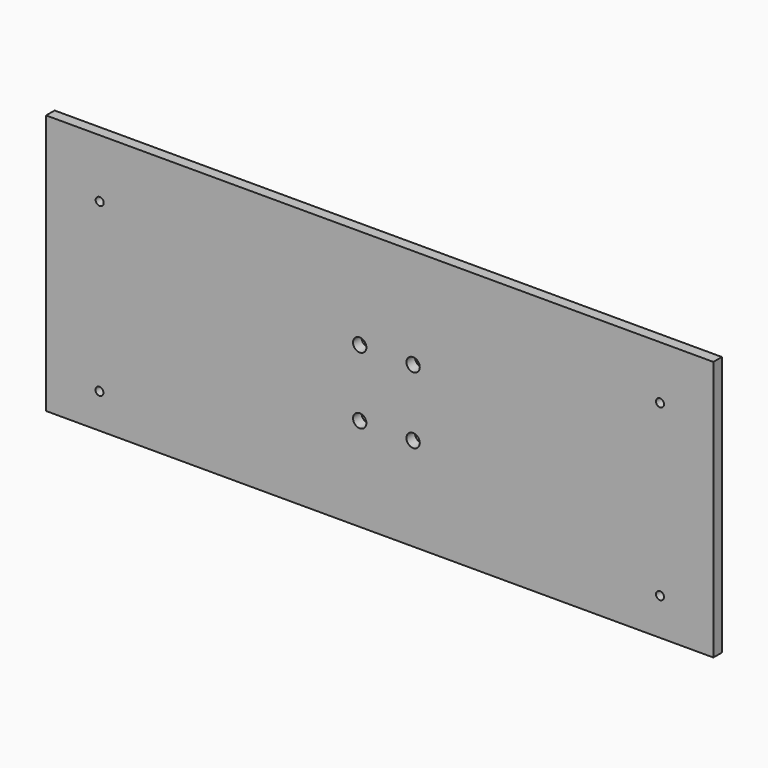
from build123d import *

# Parameters (mm, degrees)
F0_W     = 500
F0_H     = 195
F0_R     = 3
F0_R_2   = 5
F1_DEPTH = 8


with BuildPart() as f1:
    # F0 (on Front) → F1 (new body)
    with BuildSketch(Plane.XZ):
        with Locations((176.26947, 69.696774)):
            Rectangle(F0_W, F0_H)
        with Locations((-33.73053, -1.799607)):
            Circle(F0_R, mode=Mode.SUBTRACT)
        with Locations((161.26947, 42.196774)):
            Circle(F0_R_2, mode=Mode.SUBTRACT)
        with Locations((386.26947, 0)):
            Circle(F0_R, mode=Mode.SUBTRACT)
        with Locations((201.26947, 42.196774)):
            Circle(F0_R_2, mode=Mode.SUBTRACT)
        with Locations((161.26947, 92.196774)):
            Circle(F0_R_2, mode=Mode.SUBTRACT)
        with Locations((-33.559262, 123.491265)):
            Circle(F0_R, mode=Mode.SUBTRACT)
        with Locations((201.26947, 92.196774)):
            Circle(F0_R_2, mode=Mode.SUBTRACT)
        with Locations((386.26947, 127.196774)):
            Circle(F0_R, mode=Mode.SUBTRACT)
    extrude(amount=F1_DEPTH)


solid = f1.part
